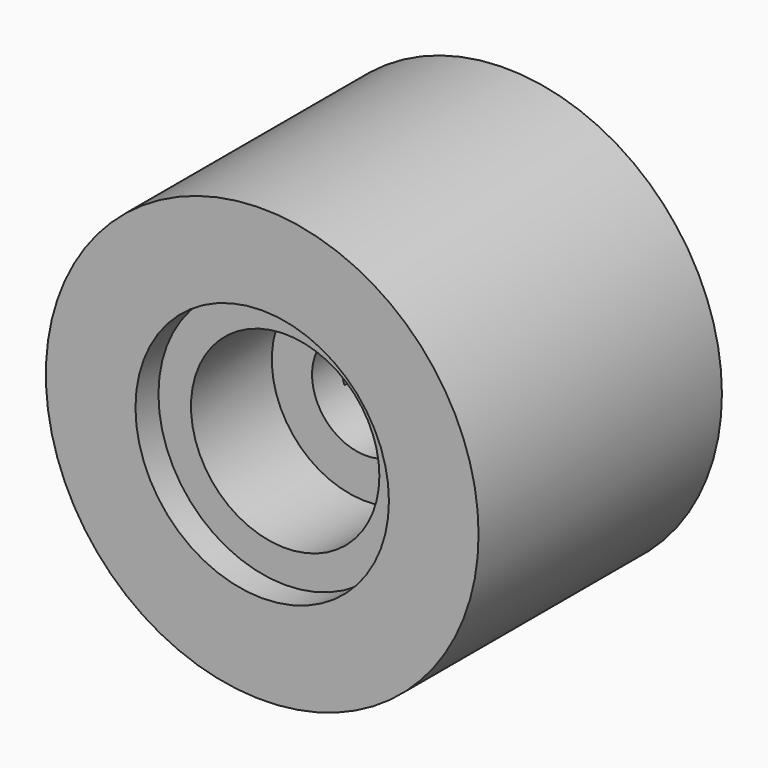
from build123d import *

# Parameters (mm, degrees)
F0_R     = 16.125
F0_R_2   = 9.445
F1_DEPTH = 22.67
F0_R_3   = 7.02
F3_DEPTH = 20.53
F0_R_4   = 4.02
F5_DEPTH = 13
F6_DEPTH = 6.5
F7_DEPTH = 11.3


with BuildPart() as f1:
    # F0 (on Front) → F1 (new body)
    with BuildSketch(Plane.XZ):
        Circle(F0_R)
        Circle(F0_R_2, mode=Mode.SUBTRACT)
    extrude(amount=F1_DEPTH)

    # F0 (on Front) → F3 (join)
    with BuildSketch(Plane.XZ):
        Circle(F0_R_2)
        Circle(F0_R_3, mode=Mode.SUBTRACT)
    extrude(amount=F3_DEPTH)

    # F0 (on Front) → F5 (join)
    with BuildSketch(Plane.XZ):
        Circle(F0_R_3)
        Circle(F0_R_4, mode=Mode.SUBTRACT)
    extrude(amount=F5_DEPTH)

    # F0 (on Front) → F6 (join)
    with BuildSketch(Plane.XZ):
        Circle(F0_R_4)
        with BuildLine():
            ThreePointArc((2.971368, 1.06066), (3.108753, 0.538219), (3.155, 0))
            ThreePointArc((3.155, 0), (3.108753, -0.538219), (2.971368, -1.06066))
            ThreePointArc((2.971368, -1.06066), (0, -3.155), (-2.971368, -1.06066))
            ThreePointArc((-2.971368, -1.06066), (-3.155, 0), (-2.971368, 1.06066))
            ThreePointArc((-2.971368, 1.06066), (0, 3.155), (2.971368, 1.06066))
        make_face(mode=Mode.SUBTRACT)
    extrude(amount=F6_DEPTH)

    # F0 (on Front) → F7 (join)
    with BuildSketch(Plane.XZ):
        Circle(F0_R)
        Circle(F0_R_2, mode=Mode.SUBTRACT)
        with BuildLine():
            Line((-1.910707, 0), (-2.971368, 1.06066))
            ThreePointArc((-2.971368, 1.06066), (-3.155, 0), (-2.971368, -1.06066))
            Line((-2.971368, -1.06066), (-1.910707, 0))
        make_face()
        with BuildLine():
            ThreePointArc((2.971368, -1.06066), (3.108753, -0.538219), (3.155, 0))
            ThreePointArc((3.155, 0), (3.108753, 0.538219), (2.971368, 1.06066))
            Line((2.971368, 1.06066), (1.910707, 0))
            Line((1.910707, 0), (2.971368, -1.06066))
        make_face()
    extrude(amount=F7_DEPTH)


solid = f1.part
